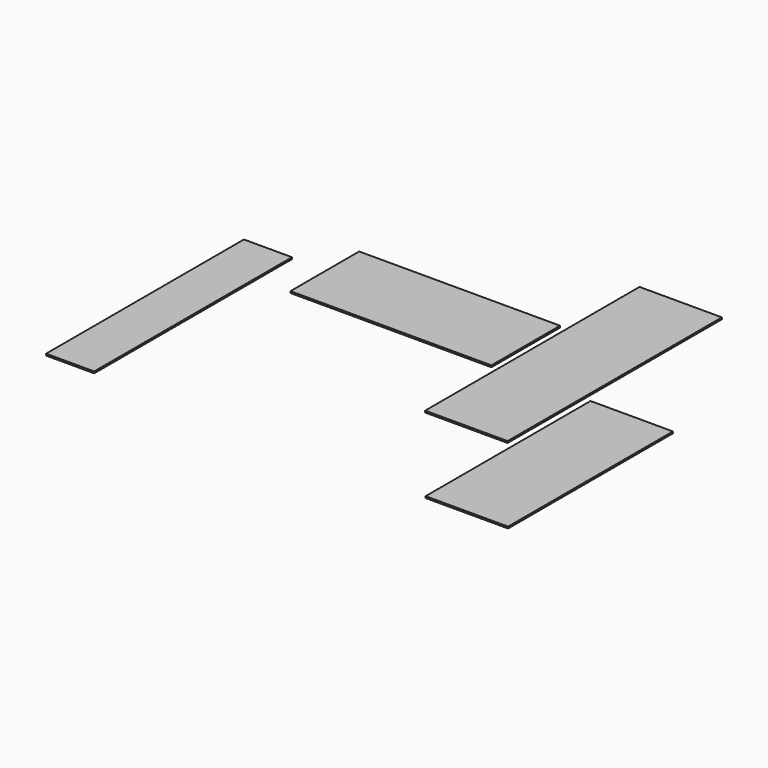
from build123d import *

# Parameters (mm, degrees)
F0_W     = 1485.9
F0_H     = 12.7
F1_DEPTH = 317.5
F2_W     = 609.6
F2_H     = 1981.2
F3_DEPTH = 12.7
F4_W     = 355.6
F4_H     = 1828.8
F5_DEPTH = 12.7
F6_W     = 609.6
F6_H     = 12.7
F7_DEPTH = 1524


with BuildPart() as f1:
    # F0 (on Front) → F1 (new body, symmetric)
    with BuildSketch(Plane.XZ):
        Rectangle(F0_W, F0_H)
    extrude(amount=F1_DEPTH, both=True)


with BuildPart() as f3:
    # F2 (on face) → F3 (new body)
    with BuildSketch(Plane.XY.offset(6.35)):
        with Locations((1118.062125, -26.900185)):
            Rectangle(F2_W, F2_H)
    extrude(amount=F3_DEPTH)


with BuildPart() as f5:
    # F4 (on face) → F5 (new body)
    with BuildSketch(Plane.XY.offset(6.35)):
        with Locations((-1163.335383, -914.4)):
            Rectangle(F4_W, F4_H)
    extrude(amount=F5_DEPTH)


with BuildPart() as f7:
    # F6 (on face) → F7 (new body)
    with BuildSketch(Plane.XZ.offset(317.5)):
        with Locations((1780.732717, 6.35)):
            Rectangle(F6_W, F6_H)
    extrude(amount=F7_DEPTH)


solid = Compound([f1.part, f3.part, f5.part, f7.part])
